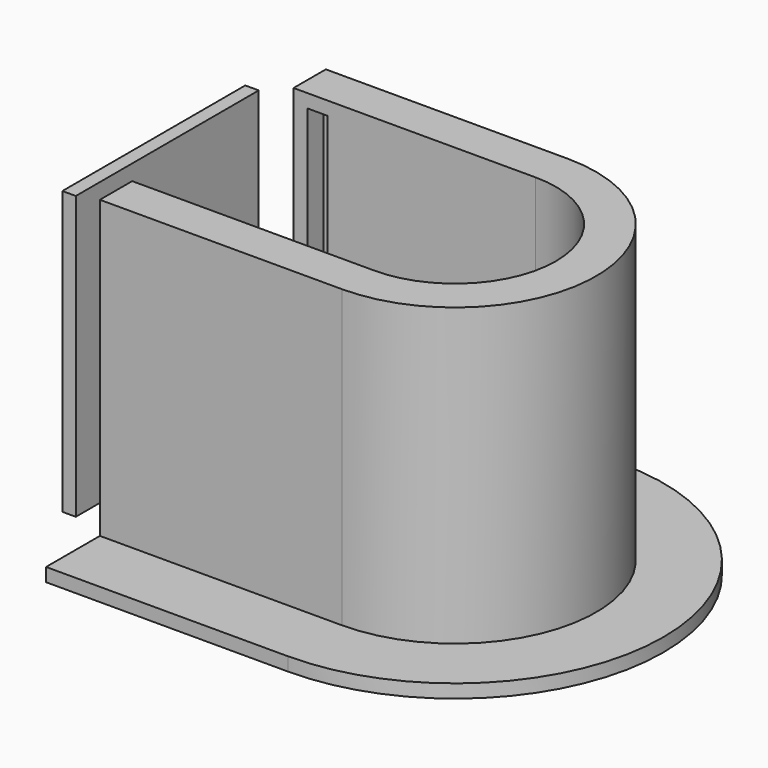
from build123d import *

# Parameters (mm, degrees)
F1_DEPTH = 1
F2_DEPTH = 23
F3_START = 22
F0_W     = 1.5
F0_H     = 1.5
F3_DEPTH = 1
F0_W_2   = 1
F0_H_2   = 17
F4_DEPTH = 21


with BuildPart() as f1:
    # F0 (on Top) → F1 (new body)
    with BuildSketch(Plane.XY):
        with BuildLine():
            Line((-45.5684255958, 37.3869501054), (-45.5684255958, 32.3869501054))
            Line((-45.5684255958, 32.3869501054), (-27.5684255958, 32.3869501054))
            ThreePointArc((-27.5684255958, 32.3869501054), (-17.0684255958, 21.8869501054), (-27.5684255958, 11.3869501054))
            Line((-27.5684255958, 11.3869501054), (-45.5684255958, 11.3869501054))
            Line((-45.5684255958, 11.3869501054), (-45.5684255958, 6.3869501054))
            Line((-45.5684255958, 6.3869501054), (-27.5684255958, 6.3869501054))
            ThreePointArc((-27.5684255958, 6.3869501054), (-12.0684255958, 21.8869501054), (-27.5684255958, 37.3869501054))
            Line((-27.5684255958, 37.3869501054), (-45.5684255958, 37.3869501054))
        make_face()
    extrude(amount=F1_DEPTH)

    # F0 (on Top) → F2 (join)
    with BuildSketch(Plane.XY):
        with BuildLine():
            Line((-45.5684255958, 32.3869501054), (-45.5684255958, 29.3869501054))
            Line((-45.5684255958, 29.3869501054), (-44.5403903723, 29.3869501054))
            Line((-44.5403903723, 29.3869501054), (-44.5403903723, 30.8869501054))
            Line((-44.5403903723, 30.8869501054), (-43.0403903723, 30.8869501054))
            Line((-43.0403903723, 30.8869501054), (-43.0403903723, 29.3869501054))
            Line((-43.0403903723, 29.3869501054), (-27.5684255958, 29.3869501054))
            ThreePointArc((-27.5684255958, 29.3869501054), (-20.0684255958, 21.8869501054), (-27.5684255958, 14.3869501054))
            Line((-27.5684255958, 14.3869501054), (-43.0403903723, 14.3869501054))
            Line((-43.0403903723, 14.3869501054), (-43.0403903723, 12.8869501054))
            Line((-43.0403903723, 12.8869501054), (-44.5403903723, 12.8869501054))
            Line((-44.5403903723, 12.8869501054), (-44.5403903723, 14.3869501054))
            Line((-44.5403903723, 14.3869501054), (-45.5684255958, 14.3869501054))
            Line((-45.5684255958, 14.3869501054), (-45.5684255958, 11.3869501054))
            Line((-45.5684255958, 11.3869501054), (-27.5684255958, 11.3869501054))
            ThreePointArc((-27.5684255958, 11.3869501054), (-17.0684255958, 21.8869501054), (-27.5684255958, 32.3869501054))
            Line((-27.5684255958, 32.3869501054), (-45.5684255958, 32.3869501054))
        make_face()
    extrude(amount=F2_DEPTH)

    # F0 (on Top) → F3 (join)
    with BuildSketch(Plane.XY.offset(F3_START)):
        with Locations((-43.7903903723, 30.1369501054)):
            Rectangle(F0_W, F0_H)
        with Locations((-43.7903903723, 13.6369501054)):
            Rectangle(F0_W, F0_H)
    extrude(amount=F3_DEPTH)


with BuildPart() as f4:
    # F0 (on Top) → F4 (new body)
    with BuildSketch(Plane.XY):
        with Locations((-49.8578819335, 22.3869501054)):
            Rectangle(F0_W_2, F0_H_2)
    extrude(amount=F4_DEPTH)


solid = Compound([f1.part, f4.part])
